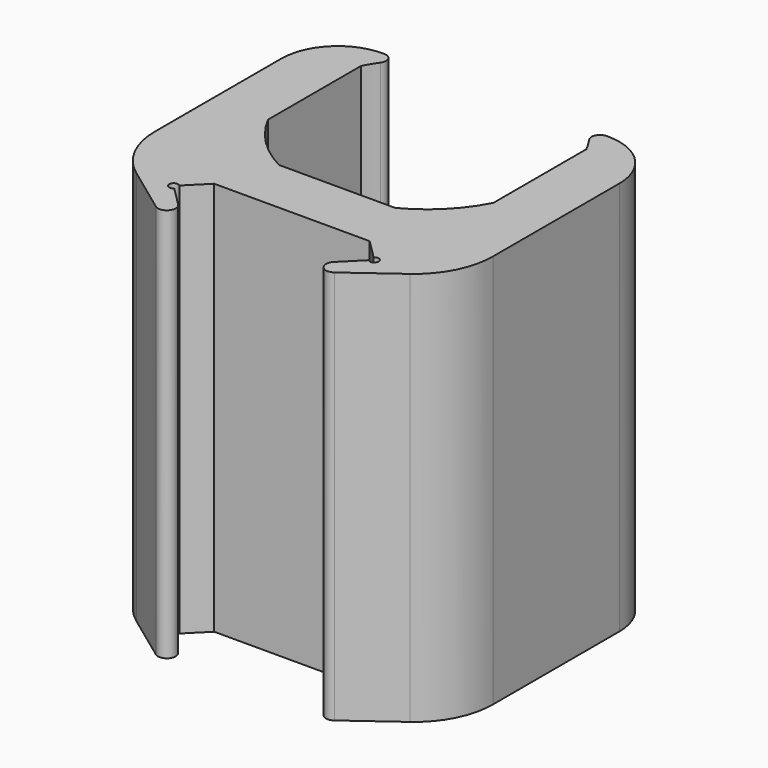
from build123d import *

# Parameters (mm, degrees)
F1_DEPTH = 44.45


with BuildPart() as f1:
    # F0 (on Top) → F1 (new body)
    with BuildSketch(Plane.XY):
        with BuildLine():
            Line((-10.949447, -21.236447), (-8.763, -19.05))
            Line((-8.763, -19.05), (8.763, -19.05))
            Line((8.763, -19.05), (10.949447, -21.236447))
            ThreePointArc((10.949447, -21.236447), (11.803, -21.59), (10.949447, -21.943553))
            Line((10.949447, -21.943553), (8.763, -24.13))
            ThreePointArc((8.763, -24.13), (8.711187, -25.48829), (10.061583, -25.643429))
            Line((10.061583, -25.643429), (15.41822, -21.714082))
            ThreePointArc((15.41822, -21.714082), (18.090248, -18.563741), (19.05, -14.545873))
            Line((19.05, -14.545873), (19.05, 3.272715))
            ThreePointArc((19.05, 3.272715), (17.190128, 7.762843), (12.7, 9.622715))
            Line((12.7, 9.622715), (12.533354, 9.622715))
            ThreePointArc((12.533354, 9.622715), (11.68973, 9.11243), (11.75002, 8.128327))
            ThreePointArc((11.75002, 8.128327), (12.250602, 7.352238), (12.7, 6.54543))
            Line((12.7, 6.54543), (12.7, -6.54543))
            ThreePointArc((12.7, -6.54543), (10.102788, -10.102788), (6.54543, -12.7))
            Line((6.54543, -12.7), (-6.54543, -12.7))
            ThreePointArc((-6.54543, -12.7), (-10.102788, -10.102788), (-12.7, -6.54543))
            Line((-12.7, -6.54543), (-12.7, 6.54543))
            ThreePointArc((-12.7, 6.54543), (-12.250602, 7.352238), (-11.75002, 8.128327))
            ThreePointArc((-11.75002, 8.128327), (-11.68973, 9.11243), (-12.533354, 9.622715))
            Line((-12.533354, 9.622715), (-12.7, 9.622715))
            ThreePointArc((-12.7, 9.622715), (-17.190128, 7.762843), (-19.05, 3.272715))
            Line((-19.05, 3.272715), (-19.05, -14.545873))
            ThreePointArc((-19.05, -14.545873), (-18.090248, -18.563741), (-15.41822, -21.714082))
            Line((-15.41822, -21.714082), (-10.061583, -25.643429))
            ThreePointArc((-10.061583, -25.643429), (-8.711187, -25.48829), (-8.763, -24.13))
            Line((-8.763, -24.13), (-10.949447, -21.943553))
            ThreePointArc((-10.949447, -21.943553), (-11.803, -21.59), (-10.949447, -21.236447))
        make_face()
    extrude(amount=F1_DEPTH)


solid = f1.part
